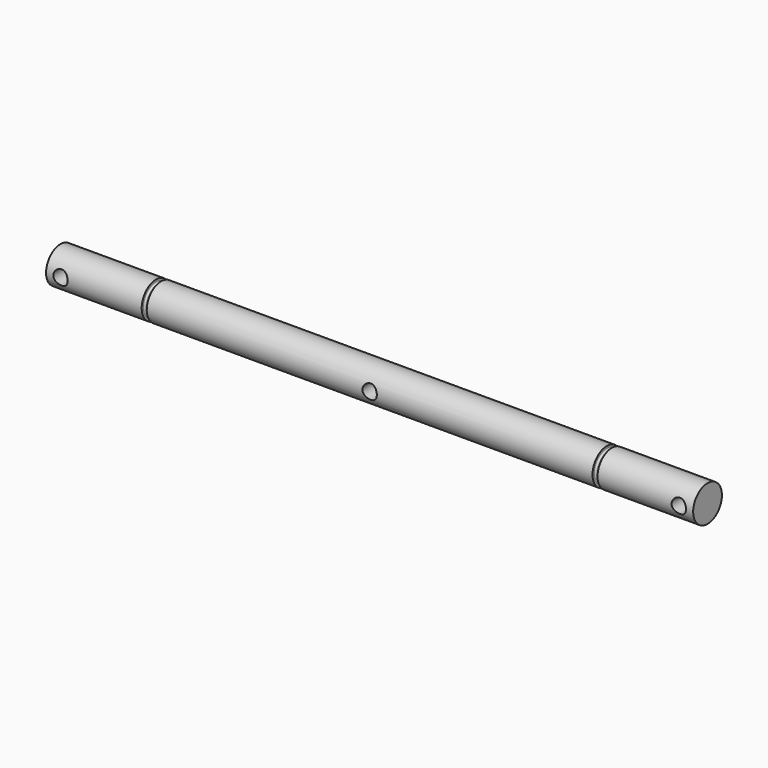
from build123d import *

# Parameters (mm, degrees)
F0_W     = 90
F0_H     = 2.5
F2_R     = 1
F3_DEPTH = 12.5
F4_W     = 0.7
F4_H     = 1
F6_R     = 0.2


with BuildPart() as f1:
    # F0 (on Front) → F1 (revolve)
    with BuildSketch(Plane.XZ):
        with Locations((0, 1.25)):
            Rectangle(F0_W, F0_H)
    revolve(axis=Axis((-1.02883, 0, 0), (1, 0, 0)))

    # F2 (on Front) → F3 (cut, symmetric)
    with BuildSketch(Plane.XZ):
        with Locations((-43, 0)):
            Circle(F2_R)
        Circle(F2_R)
        with Locations((43, 0)):
            Circle(F2_R)
    extrude(amount=F3_DEPTH, both=True, mode=Mode.SUBTRACT)

    # F4 (on Front) → F5 (revolve, cut)
    with BuildSketch(Plane.XZ):
        with Locations((-31.35, 2.5)):
            Rectangle(F4_W, F4_H)
        with Locations((31.35, 2.5)):
            Rectangle(F4_W, F4_H)
    revolve(axis=Axis((-1.02883, 0, 0), (1, 0, 0)), mode=Mode.SUBTRACT)

    # F6
    f6_edges = [f1.edges().sort_by_distance(p)[0] for p in [
        (-31.7, 0, -2),
        (-31, 0, -2),
        (31.7, 0, -2),
        (31, 0, -2),
    ]]
    fillet(f6_edges, radius=F6_R)


solid = f1.part
